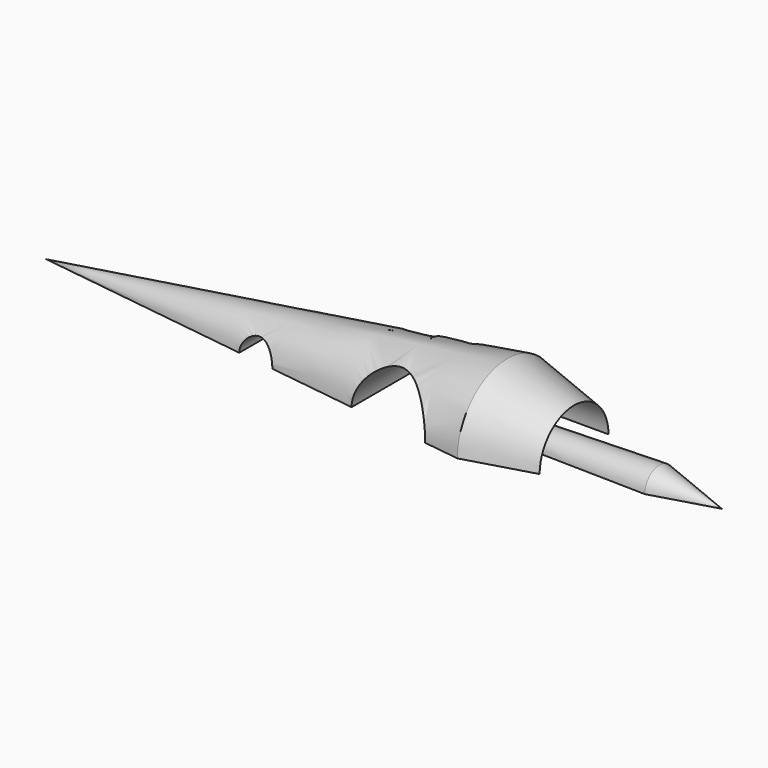
from build123d import *

# Parameters (mm, degrees)
F1_ANGLE = 180
F2_R     = 6.179493
F2_R_2   = 13.757686
F3_DEPTH = 25.4


with BuildPart() as f1:
    # F0 (on Top) → F1 (revolve)
    with BuildSketch(Plane.XY):
        Polygon((153.723329, 20.818153), (0, 0), (225.253329, 0), (204.402089, 6.068563), (140.4742, 4.66992), (140.4742, 14.344544), (175.966287, 14.344544), align=None)
    revolve(axis=Axis((112.626664, 0, 0), (1, 0, 0)), revolution_arc=F1_ANGLE)

    # F2 (on Front) → F3 (cut, symmetric)
    with BuildSketch(Plane.XZ):
        with Locations((78.392647, 0)):
            Circle(F2_R)
        with Locations((127.950937, 0)):
            Circle(F2_R_2)
    extrude(amount=F3_DEPTH, both=True, mode=Mode.SUBTRACT)


solid = f1.part
